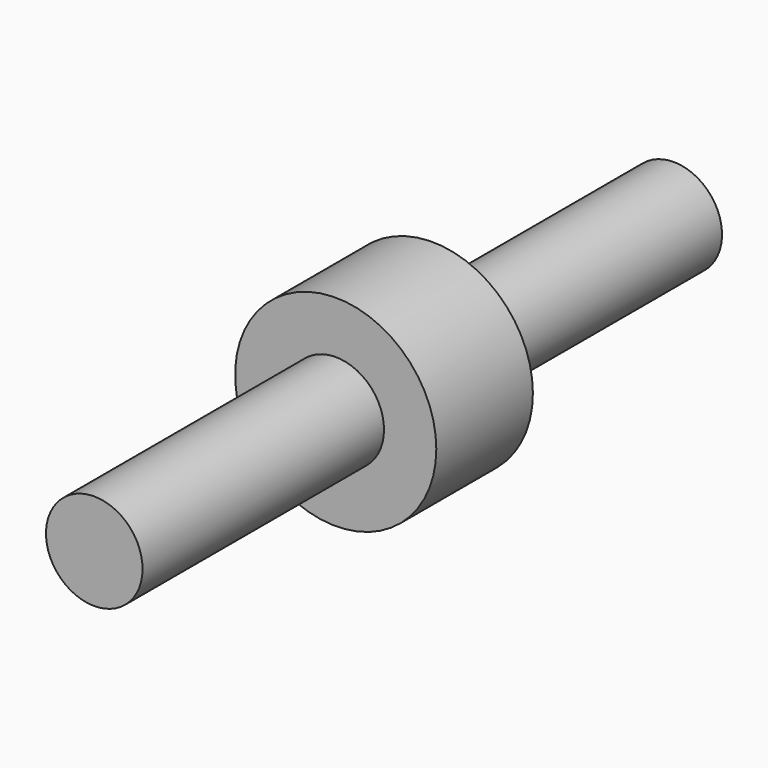
from build123d import *

# Parameters (mm, degrees)
F0_R     = 6.35
F1_DEPTH = 7.62
F2_R     = 3.048
F3_DEPTH = 19.05
F4_R     = 3.048
F5_DEPTH = 19.05


with BuildPart() as f1:
    # F0 (on Front) → F1 (new body)
    with BuildSketch(Plane.XZ):
        Circle(F0_R)
    extrude(amount=F1_DEPTH)

    # F2 (on face) → F3 (join)
    with BuildSketch(Plane(origin=(0, 0, 0), x_dir=(-1, 0, 0), z_dir=(0, 1, 0))):
        Circle(F2_R)
    extrude(amount=F3_DEPTH)

    # F4 (on face) → F5 (join)
    with BuildSketch(Plane.XZ.offset(7.62)):
        Circle(F4_R)
    extrude(amount=F5_DEPTH)


solid = f1.part
